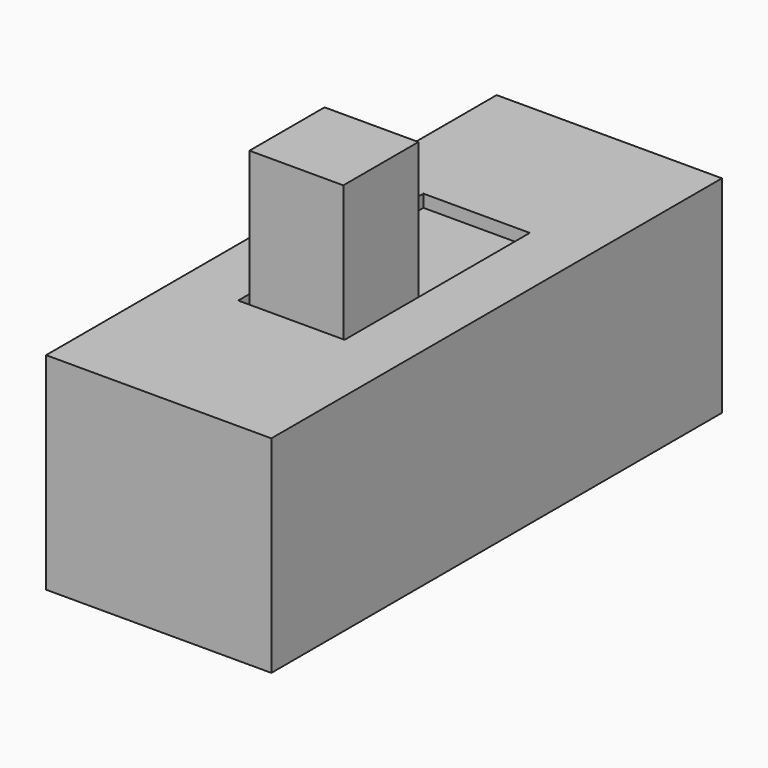
from build123d import *

# Parameters (mm, degrees)
F0_W     = 3.6
F0_H     = 9
F1_DEPTH = 1.65
F2_W     = 1.7
F2_H     = 3.7
F3_DEPTH = 0.2
F4_W     = 1.5
F4_H     = 1.5
F5_DEPTH = 2.3


with BuildPart() as f1:
    # F0 (on Top) → F1 (new body, symmetric)
    with BuildSketch(Plane.XY):
        Rectangle(F0_W, F0_H)
    extrude(amount=F1_DEPTH, both=True)

    # F2 (on face) → F3 (cut)
    with BuildSketch(Plane.XY.offset(1.65)):
        Rectangle(F2_W, F2_H)
    extrude(amount=-F3_DEPTH, mode=Mode.SUBTRACT)


with BuildPart() as f5:
    # F4 (on face) → F5 (new body)
    with BuildSketch(Plane.XY.offset(1.45)):
        with Locations((0, -1)):
            Rectangle(F4_W, F4_H)
    extrude(amount=F5_DEPTH)


solid = Compound([f1.part, f5.part])
